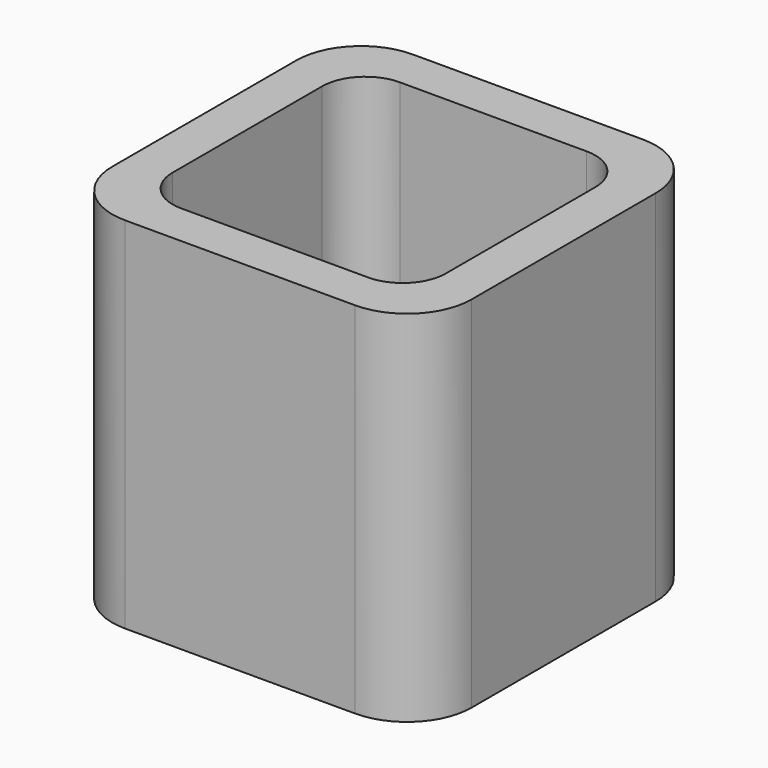
from build123d import *

# Parameters (mm, degrees)
EXTRUDE_DEPTH = 50


with BuildPart() as part:
    # Sketch → Extrude (new body)
    with BuildSketch(Plane.XY):
        with BuildLine():
            Line((-16, 25), (16, 25))
            ThreePointArc((25, 16), (22.363961, 22.363961), (16, 25))
            Line((25, 16), (25, -16))
            ThreePointArc((16, -25), (22.363961, -22.363961), (25, -16))
            Line((16, -25), (-16, -25))
            ThreePointArc((-25, -16), (-22.363961, -22.363961), (-16, -25))
            Line((-25, -16), (-25, 16))
            ThreePointArc((-16, 25), (-22.363961, 22.363961), (-25, 16))
        make_face()
        with BuildLine():
            Line((-13, 19), (13, 19))
            ThreePointArc((19, 13), (17.242641, 17.242641), (13, 19))
            Line((19, 13), (19, -13))
            ThreePointArc((13, -19), (17.242641, -17.242641), (19, -13))
            Line((13, -19), (-13, -19))
            ThreePointArc((-19, -13), (-17.242641, -17.242641), (-13, -19))
            Line((-19, -13), (-19, 13))
            ThreePointArc((-13, 19), (-17.242641, 17.242641), (-19, 13))
        make_face(mode=Mode.SUBTRACT)
    extrude(amount=EXTRUDE_DEPTH)


solid = part.part
